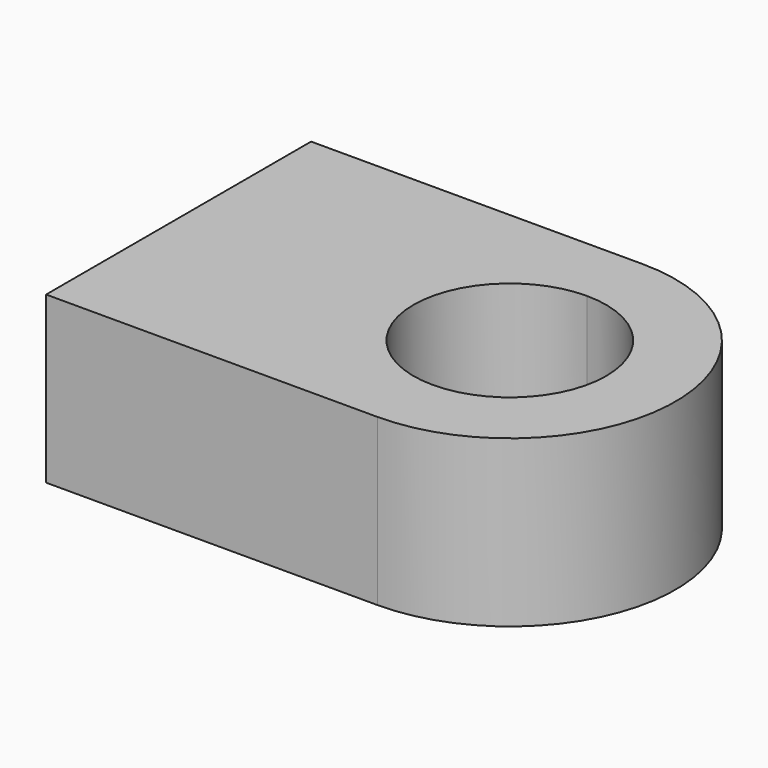
from build123d import *

# Parameters (mm, degrees)
F1_DEPTH = 50.8


with BuildPart() as f1:
    # F0 (on Top) → F1 (new body)
    with BuildSketch(Plane.XY):
        with BuildLine():
            Line((58.2818202674, 67.1484221876), (-43.3181797326, 67.1484221876))
            Line((-43.3181797326, 67.1484221876), (-43.3181797326, -34.4515778124))
            Line((-43.3181797326, -34.4515778124), (58.2818202674, -34.4515778124))
            Line((58.2818202674, -34.4515778124), (58.2818202674, -13.207797377))
            ThreePointArc((58.2818202674, -13.207797377), (28.7256007029, 16.3484221876), (58.2818202674, 45.9046417521))
            Line((58.2818202674, 45.9046417521), (58.2818202674, 67.1484221876))
        make_face()
        with BuildLine():
            ThreePointArc((58.2818202674, -34.4515778124), (109.0818202674, 16.3484221876), (58.2818202674, 67.1484221876))
            Line((58.2818202674, 67.1484221876), (58.2818202674, 45.9046417521))
            ThreePointArc((58.2818202674, 45.9046417521), (79.1812235478, 37.2478254679), (87.838039832, 16.3484221876))
            ThreePointArc((87.838039832, 16.3484221876), (79.1812235478, -4.5509810928), (58.2818202674, -13.207797377))
            Line((58.2818202674, -13.207797377), (58.2818202674, -34.4515778124))
        make_face()
    extrude(amount=F1_DEPTH)


solid = f1.part
